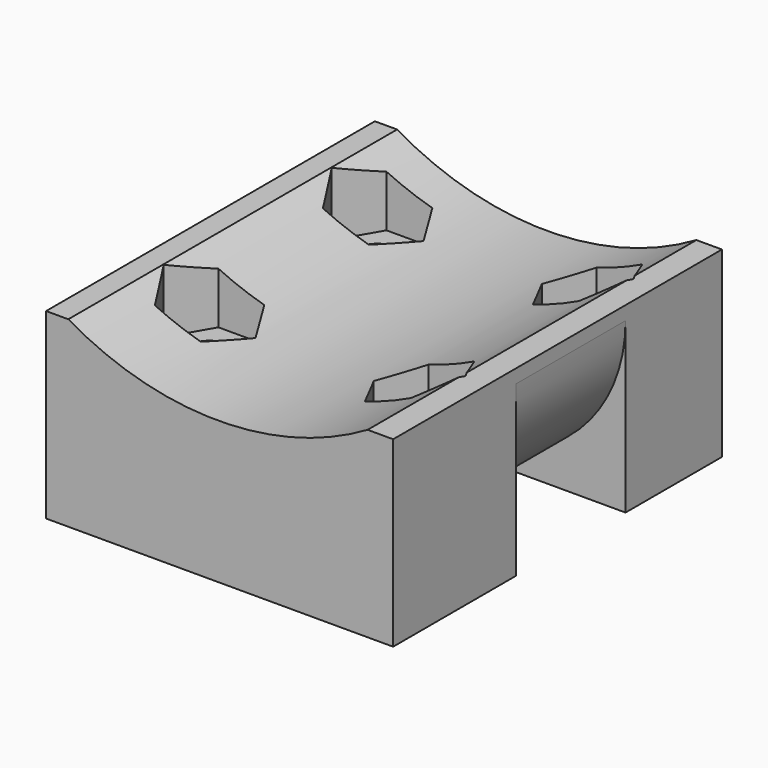
from build123d import *

# Parameters (mm, degrees)
F0_W      = 38
F0_H      = 45
F1_DEPTH  = 20
F0_R      = 2.5
F2_DEPTH  = 13
F3_DEPTH  = 13
F4_DEPTH  = 13
F5_DEPTH  = 13
F6_W      = 15
F6_H      = 20
F7_DEPTH  = 40.2
F9_R      = 32.5
F10_DEPTH = 102.8
F11_R     = 17


with BuildPart() as f1:
    # F0 (on Top) → F1 (new body)
    with BuildSketch(Plane.XY):
        with Locations((19, -22.5)):
            Rectangle(F0_W, F0_H)
        Polygon((12.5229473419, -32), (10.011473671, -36.35), (4.988526329, -36.35), (2.4770526581, -32), (4.988526329, -27.65), (10.011473671, -27.65), align=None, mode=Mode.SUBTRACT)
        Polygon((35.5229473419, -32), (33.011473671, -36.35), (27.988526329, -36.35), (25.4770526581, -32), (27.988526329, -27.65), (33.011473671, -27.65), align=None, mode=Mode.SUBTRACT)
        Polygon((2.4770526581, -9), (4.988526329, -4.65), (10.011473671, -4.65), (12.5229473419, -9), (10.011473671, -13.35), (4.988526329, -13.35), align=None, mode=Mode.SUBTRACT)
        Polygon((25.4770526581, -9), (27.988526329, -4.65), (33.011473671, -4.65), (35.5229473419, -9), (33.011473671, -13.35), (27.988526329, -13.35), align=None, mode=Mode.SUBTRACT)
    extrude(amount=F1_DEPTH)

    # F0 (on Top) → F2 (join)
    with BuildSketch(Plane.XY):
        Polygon((10.011473671, -4.65), (4.988526329, -4.65), (2.4770526581, -9), (4.988526329, -13.35), (10.011473671, -13.35), (12.5229473419, -9), align=None)
        with Locations((7.5, -9)):
            Circle(F0_R, mode=Mode.SUBTRACT)
    extrude(amount=F2_DEPTH)

    # F0 (on Top) → F3 (join)
    with BuildSketch(Plane.XY):
        Polygon((33.011473671, -4.65), (27.988526329, -4.65), (25.4770526581, -9), (27.988526329, -13.35), (33.011473671, -13.35), (35.5229473419, -9), align=None)
        with Locations((30.5, -9)):
            Circle(F0_R, mode=Mode.SUBTRACT)
    extrude(amount=F3_DEPTH)

    # F0 (on Top) → F4 (join)
    with BuildSketch(Plane.XY):
        Polygon((4.988526329, -36.35), (10.011473671, -36.35), (12.5229473419, -32), (10.011473671, -27.65), (4.988526329, -27.65), (2.4770526581, -32), align=None)
        with Locations((7.5, -32)):
            Circle(F0_R, mode=Mode.SUBTRACT)
    extrude(amount=F4_DEPTH)

    # F0 (on Top) → F5 (join)
    with BuildSketch(Plane.XY):
        Polygon((27.988526329, -36.35), (33.011473671, -36.35), (35.5229473419, -32), (33.011473671, -27.65), (27.988526329, -27.65), (25.4770526581, -32), align=None)
        with Locations((30.5, -32)):
            Circle(F0_R, mode=Mode.SUBTRACT)
    extrude(amount=F5_DEPTH)

    # F6 (on Right) → F7 (cut)
    with BuildSketch(Plane.YZ):
        with Locations((-20.6906894967, -8.5)):
            Rectangle(F6_W, F6_H)
    extrude(amount=F7_DEPTH, mode=Mode.SUBTRACT)

    # F9 (on offset) → F10 (cut)
    with BuildSketch(Plane.XZ.offset(70)):
        with Locations((18.8195854425, 48.0670109391)):
            Circle(F9_R)
    extrude(amount=-F10_DEPTH, mode=Mode.SUBTRACT)

    # F11
    f11_edges = [f1.edges().sort_by_distance(p)[0] for p in [
        (38, -20.690689, 1.5),
        (0, -20.690689, 1.5),
    ]]
    fillet(f11_edges, radius=F11_R)


solid = f1.part
